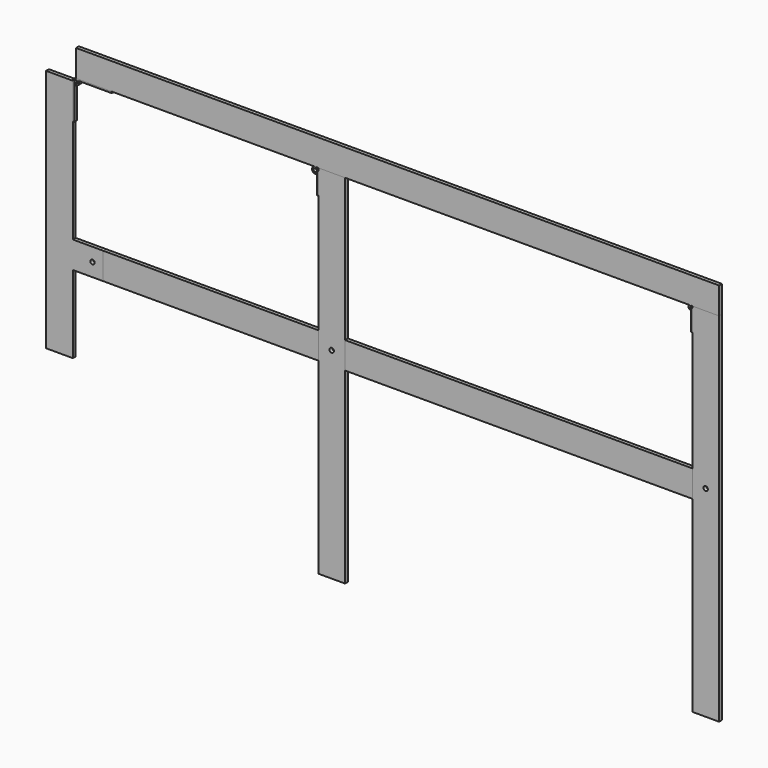
from build123d import *

# Parameters (mm, degrees)
F0_W     = 19.05
F0_H     = 19.05
F0_R     = 1.5875
F0_W_2   = 246.82704
F0_W_3   = 152.89022
F0_W_4   = 15.24
F1_DEPTH = 2.54
F2_DEPTH = 2.54
F0_H_2   = 133.35
F3_DEPTH = 2.54
F4_DEPTH = 2.54
F0_H_3   = 55.2061730385
F0_W_5   = 6.35
F5_DEPTH = 2.54
F0_W_6   = 0.9906
F0_H_4   = 15.24
F6_DEPTH = 2.54
F0_W_7   = 1.016
F7_DEPTH = 2.54
F0_H_5   = 25.4
F8_DEPTH = 2.54


with BuildPart() as f1:
    # F0 (on Front) → F1 (new body)
    with BuildSketch(Plane.XZ):
        with Locations((219.075, -111.125)):
            Rectangle(F0_W, F0_H)
        with Locations((219.075, -111.125)):
            Circle(F0_R, mode=Mode.SUBTRACT)
        with Locations((86.13648, -111.125)):
            Rectangle(F0_W_2, F0_H)
        with Locations((-46.80204, -111.125)):
            Rectangle(F0_W, F0_H)
        with Locations((-46.80204, -111.125)):
            Circle(F0_R, mode=Mode.SUBTRACT)
        with Locations((-132.77215, -111.125)):
            Rectangle(F0_W_3, F0_H)
        with Locations((-216.83726, -111.125)):
            Rectangle(F0_W_4, F0_H)
        with Locations((-216.86774, -111.125)):
            Circle(F0_R, mode=Mode.SUBTRACT)
    extrude(amount=F1_DEPTH)


with BuildPart() as f2:
    # F0 (on Front) → F2 (new body)
    with BuildSketch(Plane.XZ):
        Polygon((228.6, 19.05), (-228.6, 19.05), (-228.6, 0), (-203.2, 0), (-58.5342999945, 0), (-56.32704, 0), (-37.27704, 0), (208.1656999991, 0), (209.55, 0), (228.6, 0), align=None)
    extrude(amount=F2_DEPTH)


with BuildPart() as f3:
    # F0 (on Front) → F3 (new body)
    with BuildSketch(Plane.XZ):
        Polygon((228.6, -101.6), (228.6, 0), (209.55, 0), (209.55, -1.3843), (209.55, -16.6243), (209.55, -101.6), align=None)
        with Locations((219.075, -111.125)):
            Rectangle(F0_W, F0_H)
        with Locations((219.075, -111.125)):
            Circle(F0_R, mode=Mode.SUBTRACT)
        with Locations((219.075, -187.325)):
            Rectangle(F0_W, F0_H_2)
    extrude(amount=F3_DEPTH)


with BuildPart() as f4:
    # F0 (on Front) → F4 (new body)
    with BuildSketch(Plane.XZ):
        Polygon((-37.27704, 0), (-56.32704, 0), (-56.32704, -2.20726), (-56.32704, -17.44726), (-56.32704, -101.6), (-37.27704, -101.6), align=None)
        with Locations((-46.80204, -111.125)):
            Rectangle(F0_W, F0_H)
        with Locations((-46.80204, -111.125)):
            Circle(F0_R, mode=Mode.SUBTRACT)
        with Locations((-46.80204, -187.325)):
            Rectangle(F0_W, F0_H_2)
    extrude(amount=F4_DEPTH)


with BuildPart() as f5:
    # F0 (on Front) → F5 (new body)
    with BuildSketch(Plane.XZ):
        Polygon((-230.80726, -27.60726), (-230.80726, -2.20726), (-249.85726, -2.20726), (-249.85726, -101.6), (-230.80726, -101.6), align=None)
        with Locations((-240.33226, -111.125)):
            Rectangle(F0_W, F0_H)
        with Locations((-240.33226, -148.2530865192)):
            Rectangle(F0_W, F0_H_3)
        with Locations((-227.63226, -111.125)):
            Rectangle(F0_W_5, F0_H)
        with Locations((-216.83726, -111.125)):
            Rectangle(F0_W_4, F0_H)
        with Locations((-216.86774, -111.125)):
            Circle(F0_R, mode=Mode.SUBTRACT)
    extrude(amount=F5_DEPTH)


with BuildPart() as f6:
    # F0 (on Front) → F6 (new body)
    with BuildSketch(Plane.XZ):
        with Locations((209.0547, -9.0043)):
            Rectangle(F0_W_6, F0_H_4)
        with BuildLine():
            ThreePointArc((209.55, -1.3843), (209.1445479169, -0.4054520825), (208.1656999991, 0))
            ThreePointArc((208.1656999991, 0), (206.7858852401, -1.4956450418), (208.3876685494, -2.7506881049))
            Line((208.3876685494, -2.7506881049), (207.8736, -1.6482645431))
            ThreePointArc((207.8736, -1.6482645431), (208.0242787852, -1.016876906), (208.5594, -1.3843))
            Line((208.5594, -1.3843), (209.55, -1.3843))
        make_face()
    extrude(amount=F6_DEPTH)


with BuildPart() as f7:
    # F0 (on Front) → F7 (new body)
    with BuildSketch(Plane.XZ):
        with Locations((-56.83504, -9.82726)):
            Rectangle(F0_W_7, F0_H_4)
        with BuildLine():
            ThreePointArc((-56.32704, -2.20726), (-56.9735314842, -0.6464914881), (-58.5342999945, 0))
            ThreePointArc((-58.5342999945, 0), (-60.6889985281, -2.6860824731), (-57.5994594434, -4.2067774021))
            Line((-57.5994594434, -4.2067774021), (-58.02884, -3.285967827))
            ThreePointArc((-58.02884, -3.285967827), (-59.5395946501, -1.5681332098), (-57.34304, -2.20726))
            Line((-57.34304, -2.20726), (-56.32704, -2.20726))
        make_face()
    extrude(amount=F7_DEPTH)


with BuildPart() as f8:
    # F0 (on Front) → F8 (new body)
    with BuildSketch(Plane.XZ):
        with BuildLine():
            Line((-203.2, 0), (-228.6, 0))
            ThreePointArc((-228.6, 0), (-227.5410910898, -0.2705853687), (-226.7418029383, -1.016))
            Line((-226.7418029383, -1.016), (-203.2, -1.016))
            Line((-203.2, -1.016), (-203.2, 0))
        make_face()
        with BuildLine():
            ThreePointArc((-229.5348405566, -4.2067774021), (-226.9391532532, -3.661077317), (-226.7418029383, -1.016))
            Line((-226.7418029383, -1.016), (-228.6, -1.016))
            ThreePointArc((-228.6, -1.016), (-227.4372184484, -2.4661797768), (-229.10546, -3.285967827))
            Line((-229.10546, -3.285967827), (-229.5348405566, -4.2067774021))
        make_face()
        with BuildLine():
            ThreePointArc((-226.7418029383, -1.016), (-227.5410910898, -0.2705853687), (-228.6, 0))
            Line((-228.6, 0), (-228.6, -1.016))
            Line((-228.6, -1.016), (-226.7418029383, -1.016))
        make_face()
        with BuildLine():
            Line((-228.6, -1.016), (-228.6, 0))
            ThreePointArc((-228.6, 0), (-230.1607685138, -0.6464914862), (-230.80726, -2.20726))
            Line((-230.80726, -2.20726), (-229.79126, -2.20726))
            ThreePointArc((-229.79126, -2.20726), (-229.4423480242, -1.3649119758), (-228.6, -1.016))
        make_face()
        with Locations((-230.29926, -14.90726)):
            Rectangle(F0_W_7, F0_H_5)
    extrude(amount=F8_DEPTH)


solid = Compound([f1.part, f2.part, f3.part, f4.part, f5.part, f6.part, f7.part, f8.part])
